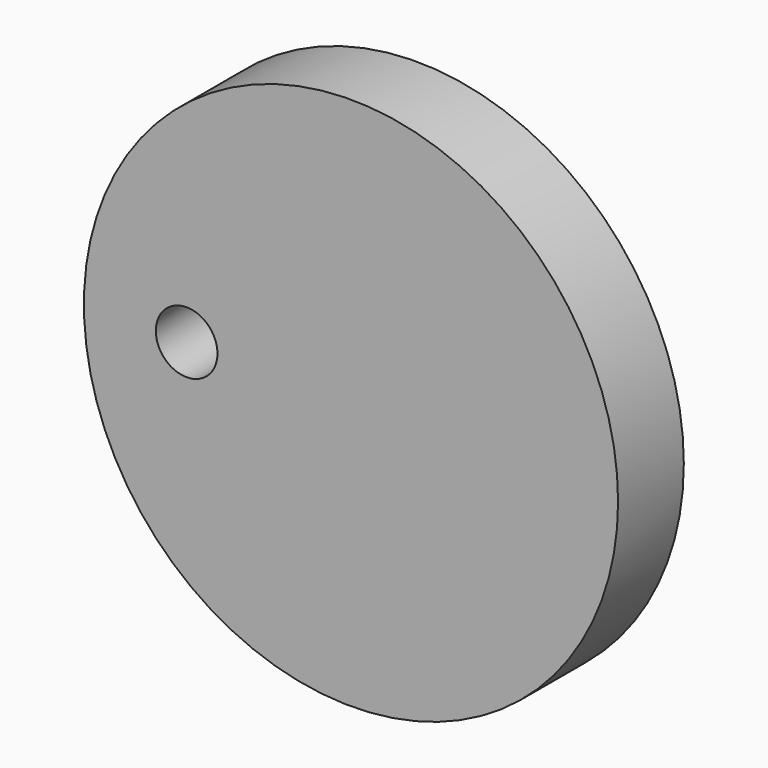
from build123d import *

# Parameters (mm, degrees)
F0_R     = 82.55
F0_R_2   = 9.525
F1_DEPTH = 25.4


with BuildPart() as f1:
    # F0 (on Front) → F1 (new body)
    with BuildSketch(Plane.XZ):
        with Locations((50.8, 0)):
            Circle(F0_R)
        Circle(F0_R_2, mode=Mode.SUBTRACT)
    extrude(amount=-F1_DEPTH)


solid = f1.part
